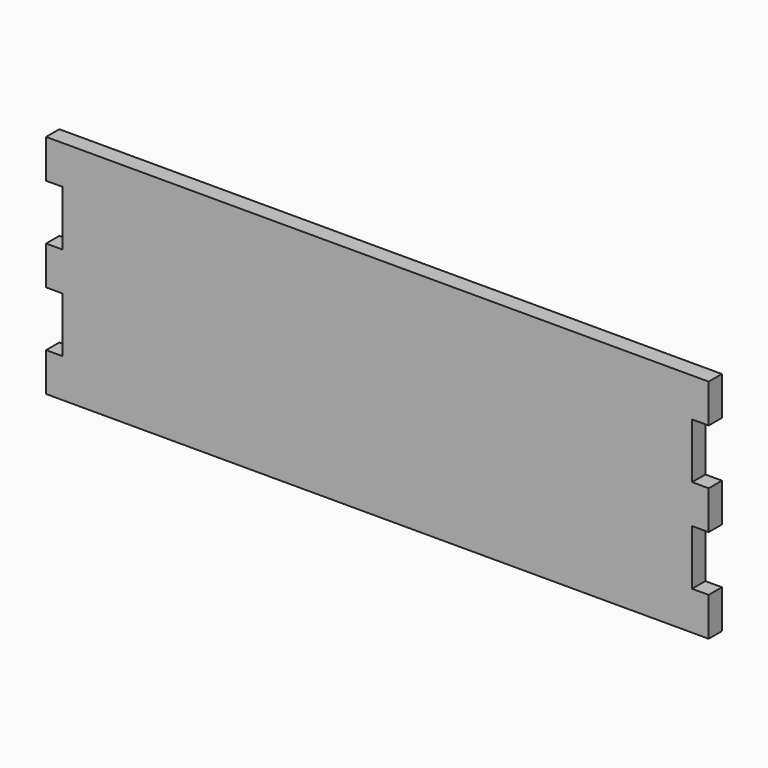
from build123d import *

# Parameters (mm, degrees)
F1_DEPTH = 3


with BuildPart() as f1:
    # F0 (on Front) → F1 (new body)
    with BuildSketch(Plane.XZ):
        Polygon((60, 41), (0, 41), (0, 34), (3, 34), (3, 24), (0, 24), (0, 17), (3, 17), (3, 7), (0, 7), (0, 0), (60, 0), (120, 0), (120, 7), (117, 7), (117, 17), (120, 17), (120, 24), (117, 24), (117, 34), (120, 34), (120, 41), align=None)
    extrude(amount=F1_DEPTH)


solid = f1.part
